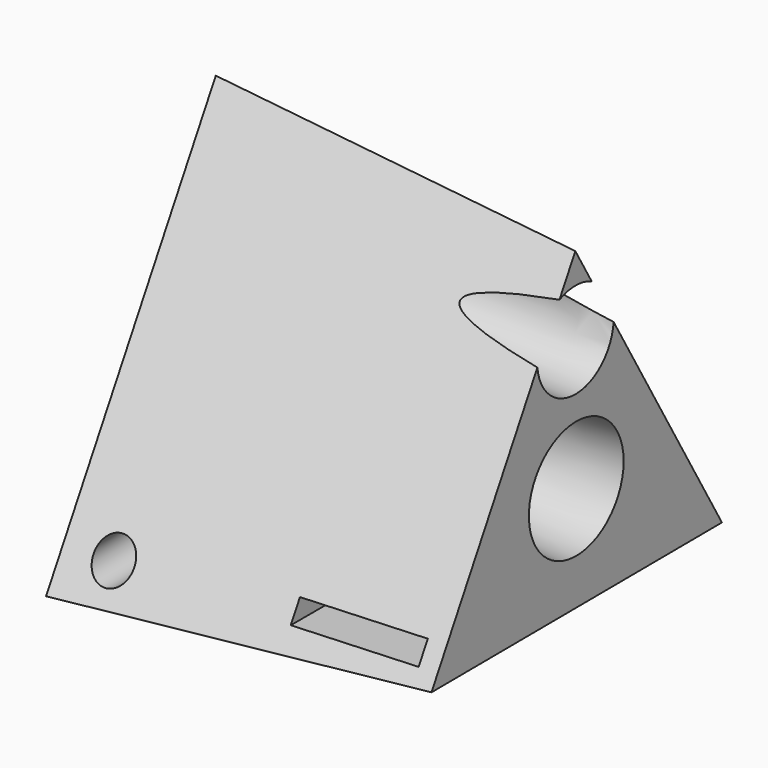
from build123d import *

# Parameters (mm, degrees)
F0_R     = 7.2775621041
F0_R_2   = 5.2278602948
F1_DEPTH = 64.77
F1_TAPER = 3
F2_R     = 3.5119766257
F2_W     = 21.9825357199
F2_H     = 3.6301426589
F3_DEPTH = 60.452


with BuildPart() as f1:
    # F0 (on Right) → F1 (new body)
    with BuildSketch(Plane.YZ):
        Polygon((-38.4736815876, -22.492638146), (38.7160368264, -22.072866559), (-0.2423552387, 44.565504705), align=None)
        Circle(F0_R, mode=Mode.SUBTRACT)
        with Locations((-0.18102175, 23.6726454438)):
            Circle(F0_R_2, mode=Mode.SUBTRACT)
    extrude(amount=F1_DEPTH, taper=F1_TAPER)

    # F2 (on Front) → F3 (cut, symmetric)
    with BuildSketch(Plane.XZ):
        with Locations((8.743179962, -15.7797113061)):
            Circle(F2_R)
        with Locations((50.4898279905, -14.7713385522)):
            Rectangle(F2_W, F2_H)
    extrude(amount=F3_DEPTH, both=True, mode=Mode.SUBTRACT)


solid = f1.part
